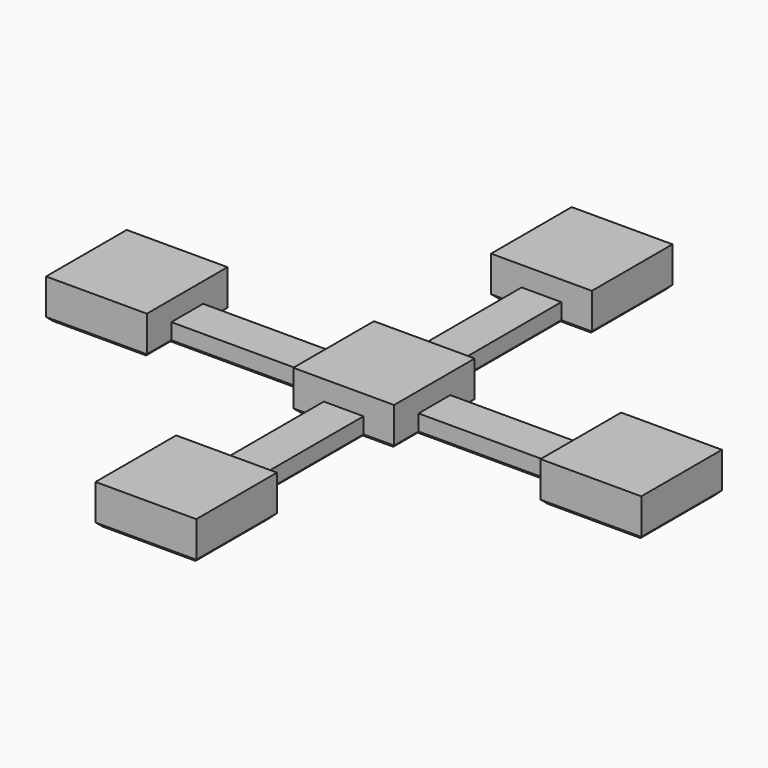
from build123d import *

# Parameters (mm, degrees)
F0_W     = 36.9
F0_H     = 10
F0_W_2   = 10
F0_H_2   = 36.9
F1_DEPTH = 5
F2_DEPTH = 10
F3_SIZE  = 1


with BuildPart() as f1:
    # F0 (on Top) → F1 (new body)
    with BuildSketch(Plane.XY):
        Polygon((49.6, 12.7), (49.6, 5), (49.6, -5), (49.6, -12.7), (75, -12.7), (75, -5), (75, 5), (75, 12.7), align=None)
        with Locations((31.15, 0)):
            Rectangle(F0_W, F0_H)
        Polygon((5, 12.7), (-5, 12.7), (-12.7, 12.7), (-12.7, 5), (-12.7, -5), (-12.7, -12.7), (-5, -12.7), (5, -12.7), (12.7, -12.7), (12.7, -5), (12.7, 5), (12.7, 12.7), align=None)
        with Locations((0, -31.15)):
            Rectangle(F0_W_2, F0_H_2)
        Polygon((5, -49.6), (-5, -49.6), (-12.7, -49.6), (-12.7, -75), (-5, -75), (5, -75), (12.7, -75), (12.7, -49.6), align=None)
        with Locations((-31.15, 0)):
            Rectangle(F0_W, F0_H)
        Polygon((-49.6, -5), (-49.6, 5), (-49.6, 12.7), (-75, 12.7), (-75, 5), (-75, -5), (-75, -12.7), (-49.6, -12.7), align=None)
        with Locations((0, 31.15)):
            Rectangle(F0_W_2, F0_H_2)
        Polygon((-5, 75), (-12.7, 75), (-12.7, 49.6), (-5, 49.6), (5, 49.6), (12.7, 49.6), (12.7, 75), (5, 75), align=None)
    extrude(amount=F1_DEPTH)

    # F0 (on Top) → F2 (join)
    with BuildSketch(Plane.XY):
        Polygon((-49.6, -5), (-49.6, 5), (-49.6, 12.7), (-75, 12.7), (-75, 5), (-75, -5), (-75, -12.7), (-49.6, -12.7), align=None)
        Polygon((-5, 75), (-12.7, 75), (-12.7, 49.6), (-5, 49.6), (5, 49.6), (12.7, 49.6), (12.7, 75), (5, 75), align=None)
        Polygon((49.6, 12.7), (49.6, 5), (49.6, -5), (49.6, -12.7), (75, -12.7), (75, -5), (75, 5), (75, 12.7), align=None)
        Polygon((5, 12.7), (-5, 12.7), (-12.7, 12.7), (-12.7, 5), (-12.7, -5), (-12.7, -12.7), (-5, -12.7), (5, -12.7), (12.7, -12.7), (12.7, -5), (12.7, 5), (12.7, 12.7), align=None)
        Polygon((5, -49.6), (-5, -49.6), (-12.7, -49.6), (-12.7, -75), (-5, -75), (5, -75), (12.7, -75), (12.7, -49.6), align=None)
    extrude(amount=F2_DEPTH)

    # F3
    f3_edges = [f1.edges().sort_by_distance(p)[0] for p in [
        (0, 75, 0),
        (-12.7, 62.3, 0),
        (-8.85, 49.6, 0),
        (-5, 31.15, 0),
        (-8.85, 12.7, 0),
        (-12.7, 8.85, 0),
        (-31.15, 5, 0),
        (-49.6, 8.85, 0),
        (-62.3, 12.7, 0),
        (-75, 0, 0),
        (-62.3, -12.7, 0),
        (-49.6, -8.85, 0),
        (-31.15, -5, 0),
        (-12.7, -8.85, 0),
        (-8.85, -12.7, 0),
        (-5, -31.15, 0),
        (-8.85, -49.6, 0),
        (-12.7, -62.3, 0),
        (0, -75, 0),
        (12.7, -62.3, 0),
        (8.85, -49.6, 0),
        (5, -31.15, 0),
        (8.85, -12.7, 0),
        (12.7, -8.85, 0),
        (31.15, -5, 0),
        (49.6, -8.85, 0),
        (62.3, -12.7, 0),
        (75, 0, 0),
        (62.3, 12.7, 0),
        (49.6, 8.85, 0),
        (31.15, 5, 0),
        (12.7, 8.85, 0),
        (8.85, 12.7, 0),
        (5, 31.15, 0),
        (8.85, 49.6, 0),
        (12.7, 62.3, 0),
    ]]
    chamfer(f3_edges, length=F3_SIZE)


solid = f1.part
